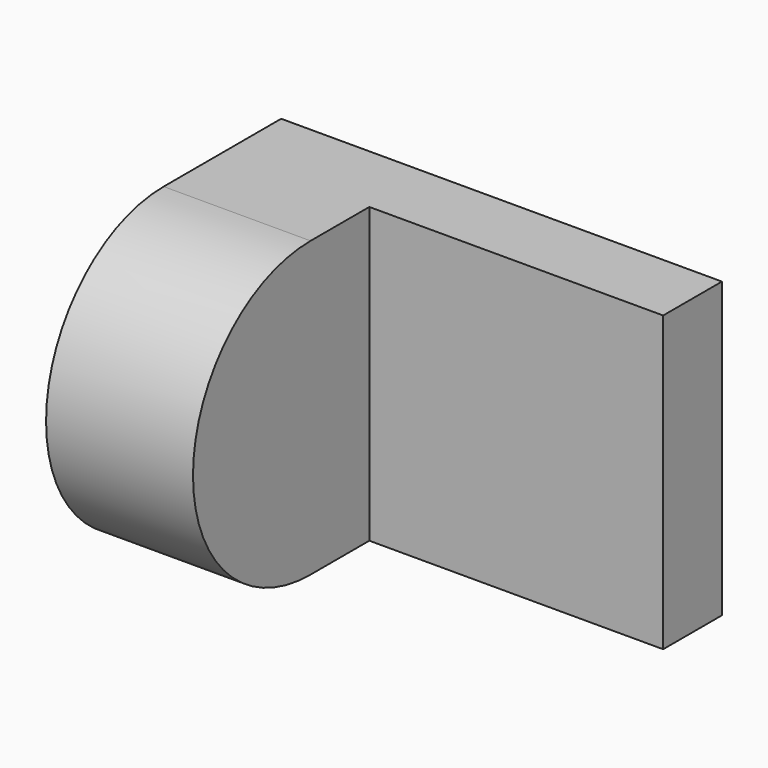
from build123d import *

# Parameters (mm, degrees)
F0_W     = 38.1
F0_H     = 25.4
F1_DEPTH = 25.4
F2_W     = 25.4
F2_H     = 19.05
F3_DEPTH = 25.401
F5_W     = 12.7
F5_H     = 25.4
F6_DEPTH = 25.4
F7_DEPTH = 12.7


with BuildPart() as f1:
    # F0 (on Front) → F1 (new body)
    with BuildSketch(Plane.XZ):
        with Locations((19.05, -12.7)):
            Rectangle(F0_W, F0_H)
    extrude(amount=F1_DEPTH)

    # F2 (on Top) → F3 (cut, through all)
    with BuildSketch(Plane.XY):
        with Locations((25.4, -15.875)):
            Rectangle(F2_W, F2_H)
    extrude(amount=-F3_DEPTH, mode=Mode.SUBTRACT)

    # F5 (on Right) → F6 (cut)
    with BuildSketch(Plane.YZ):
        with Locations((-19.05, -12.7)):
            Rectangle(F5_W, F5_H)
    extrude(amount=F6_DEPTH, mode=Mode.SUBTRACT)

    # F4 (on Right) → F7 (join)
    with BuildSketch(Plane.YZ):
        with BuildLine():
            Line((-12.7, -25.4), (-12.7, 0))
            ThreePointArc((-12.7, 0), (-25.4, -12.7), (-12.7, -25.4))
        make_face()
    extrude(amount=F7_DEPTH)


solid = f1.part
